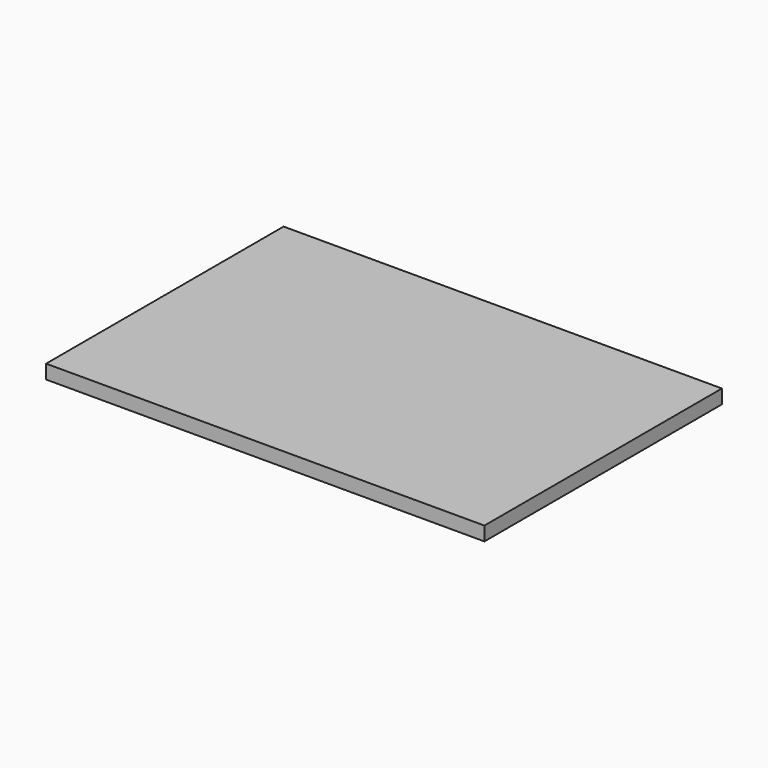
from build123d import *

# Parameters (mm, degrees)
SKETCH_W  = 564
SKETCH_H  = 382
PAD_DEPTH = 18


with BuildPart() as part:
    # Sketch → Pad (new body)
    with BuildSketch(Plane.XY):
        with Locations((-282, 191)):
            Rectangle(SKETCH_W, SKETCH_H)
    extrude(amount=PAD_DEPTH)


solid = part.part
